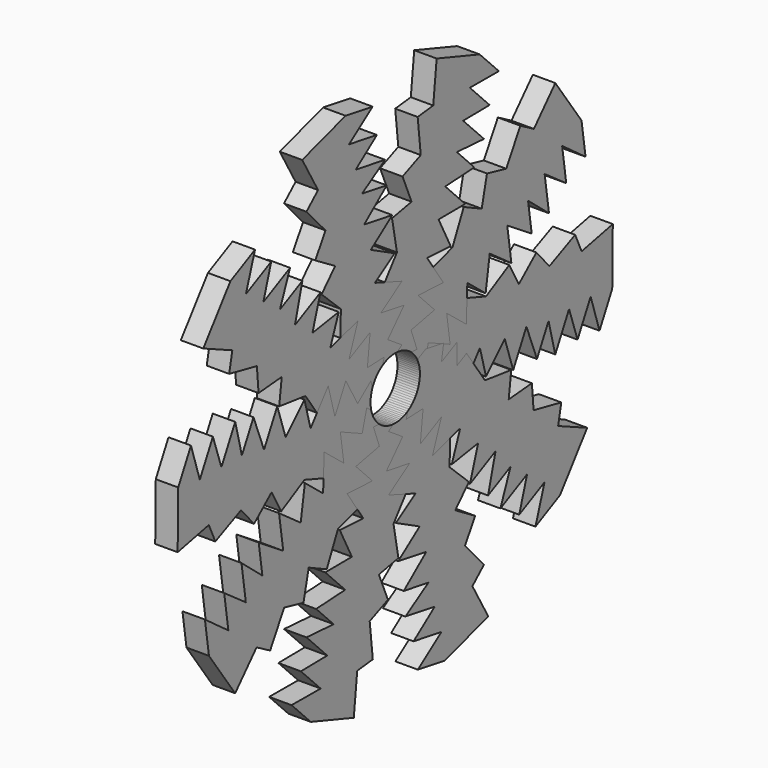
from build123d import *

# Parameters (mm, degrees)
F1_DEPTH = 4
F2_COUNT = 10
F3_R     = 5.502
F4_DEPTH = 25


with BuildPart() as f1:
    # F0 (on Right) → F1 (new body)
    with BuildSketch(Plane.YZ):
        Polygon((61.204612, -43.047432), (64.039841, -37.623517), (64.163111, -27.515313), (57.217119, -28.970161), (55.780698, -25.789522), (50.039002, -28.382553), (47.151741, -25.049897), (43.238203, -28.440408), (41.111473, -24.556814), (35.934102, -27.392041), (29.154208, -25.023097), (28.04477, -27.145499), (25.913329, -24.115036), (24.100104, -27.583812), (22.867398, -25.049897), (19.241888, -26.813645), (15.717693, -33.555582), (15.717693, -36.883891), (20.032171, -33.062499), (21.141609, -36.883891), (24.100104, -34.541748), (26.721548, -39.19553), (29.154208, -34.541748), (30.633459, -39.965663), (34.578122, -34.911558), (35.934102, -39.965663), (40.125307, -35.774454), (41.989521, -41.405204), (44.932868, -35.774454), (47.281513, -41.823724), (49.8637, -36.883891), (51.353699, -42.758882), (54.424718, -36.883891), (56.317687, -42.459631), (59.23228, -36.883891), align=None)
    extrude(amount=F1_DEPTH)


with BuildPart() as f2_1:
    # F2: instance of F1
    add(f1.part.rotate(Axis((2, 15.717693, -33.555582), (1, 0, 0)), 1 * 360 / F2_COUNT))


with BuildPart() as f2_2:
    # F2: instance of F1
    add(f1.part.rotate(Axis((2, 15.717693, -33.555582), (1, 0, 0)), 2 * 360 / F2_COUNT))


with BuildPart() as f2_3:
    # F2: instance of F1
    add(f1.part.rotate(Axis((2, 15.717693, -33.555582), (1, 0, 0)), 3 * 360 / F2_COUNT))


with BuildPart() as f2_4:
    # F2: instance of F1
    add(f1.part.rotate(Axis((2, 15.717693, -33.555582), (1, 0, 0)), 4 * 360 / F2_COUNT))


with BuildPart() as f2_5:
    # F2: instance of F1
    add(f1.part.rotate(Axis((2, 15.717693, -33.555582), (1, 0, 0)), 5 * 360 / F2_COUNT))


with BuildPart() as f2_6:
    # F2: instance of F1
    add(f1.part.rotate(Axis((2, 15.717693, -33.555582), (1, 0, 0)), 6 * 360 / F2_COUNT))


with BuildPart() as f2_7:
    # F2: instance of F1
    add(f1.part.rotate(Axis((2, 15.717693, -33.555582), (1, 0, 0)), 7 * 360 / F2_COUNT))


with BuildPart() as f2_8:
    # F2: instance of F1
    add(f1.part.rotate(Axis((2, 15.717693, -33.555582), (1, 0, 0)), 8 * 360 / F2_COUNT))


with BuildPart() as f2_9:
    # F2: instance of F1
    add(f1.part.rotate(Axis((2, 15.717693, -33.555582), (1, 0, 0)), 9 * 360 / F2_COUNT))


with BuildPart() as f4_tool:
    # F3 (on face) → F4 (new body)
    with BuildSketch(Plane.YZ.offset(4)):
        with Locations((15.717693, -33.555582)):
            Circle(F3_R)
    extrude(amount=-F4_DEPTH)


with BuildPart() as f1_1:
    add(f1.part)

    # F4: cut by f4_tool
    add(f4_tool.part, mode=Mode.SUBTRACT)


with BuildPart() as f2_1_1:
    add(f2_1.part)

    # F4: cut by f4_tool
    add(f4_tool.part, mode=Mode.SUBTRACT)


with BuildPart() as f2_2_1:
    add(f2_2.part)

    # F4: cut by f4_tool
    add(f4_tool.part, mode=Mode.SUBTRACT)


with BuildPart() as f2_3_1:
    add(f2_3.part)

    # F4: cut by f4_tool
    add(f4_tool.part, mode=Mode.SUBTRACT)


with BuildPart() as f2_4_1:
    add(f2_4.part)

    # F4: cut by f4_tool
    add(f4_tool.part, mode=Mode.SUBTRACT)


with BuildPart() as f2_5_1:
    add(f2_5.part)

    # F4: cut by f4_tool
    add(f4_tool.part, mode=Mode.SUBTRACT)


with BuildPart() as f2_6_1:
    add(f2_6.part)

    # F4: cut by f4_tool
    add(f4_tool.part, mode=Mode.SUBTRACT)


with BuildPart() as f2_7_1:
    add(f2_7.part)

    # F4: cut by f4_tool
    add(f4_tool.part, mode=Mode.SUBTRACT)


with BuildPart() as f2_8_1:
    add(f2_8.part)

    # F4: cut by f4_tool
    add(f4_tool.part, mode=Mode.SUBTRACT)


with BuildPart() as f2_9_1:
    add(f2_9.part)

    # F4: cut by f4_tool
    add(f4_tool.part, mode=Mode.SUBTRACT)


solid = Compound([f1_1.part, f2_1_1.part, f2_2_1.part, f2_3_1.part, f2_4_1.part, f2_5_1.part, f2_6_1.part, f2_7_1.part, f2_8_1.part, f2_9_1.part])
